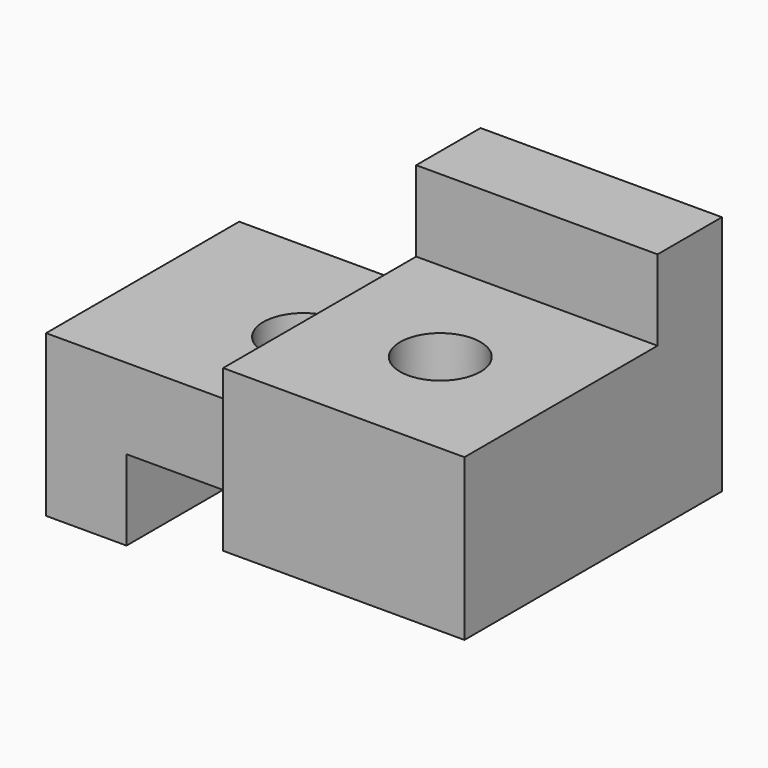
from build123d import *

# Parameters (mm, degrees)
F0_R      = 3.175
F0_W      = 19.05
F0_H      = 6.35
F1_DEPTH  = 12.7
F2_DEPTH  = 19.05
F3_W      = 12.7
F3_H      = 6.35
F4_DEPTH  = 19.051
F5_W      = 19.05
F5_H      = 6.35
F6_DEPTH  = 25.401
F7_R      = 3.175
F8_DEPTH  = 6.35
F9_W      = 19.05
F9_H      = 6.35
F10_DEPTH = 6.35


with BuildPart() as f1:
    # F0 (on Top) → F1 (new body)
    with BuildSketch(Plane.XY):
        Polygon((0, 19.05), (0, 0), (19.05, 0), (19.05, 12.7), (19.05, 19.05), align=None)
        with Locations((12.7, 9.525)):
            Circle(F0_R, mode=Mode.SUBTRACT)
        Polygon((19.05, 12.7), (19.05, 0), (19.05, -6.35), (38.1, -6.35), (38.1, 12.7), align=None)
        with Locations((28.575, 3.175)):
            Circle(F0_R, mode=Mode.SUBTRACT)
        with Locations((28.575, 15.875)):
            Rectangle(F0_W, F0_H)
    extrude(amount=F1_DEPTH)

    # F0 (on Top) → F2 (join)
    with BuildSketch(Plane.XY):
        with Locations((28.575, 15.875)):
            Rectangle(F0_W, F0_H)
    extrude(amount=F2_DEPTH)

    # F3 (on face) → F4 (cut, through all)
    with BuildSketch(Plane.XZ):
        with Locations((12.7, 3.175)):
            Rectangle(F3_W, F3_H)
    extrude(amount=-F4_DEPTH, mode=Mode.SUBTRACT)

    # F5 (on face) → F6 (cut, through all)
    with BuildSketch(Plane.XZ.offset(6.35)):
        with Locations((28.575, 3.175)):
            Rectangle(F5_W, F5_H)
    extrude(amount=-F6_DEPTH, mode=Mode.SUBTRACT)

    # F7 (on face) → F8 (join)
    with BuildSketch(Plane.XY.offset(12.7)):
        Polygon((19.05, 12.7), (19.05, 0), (19.05, -6.35), (38.1, -6.35), (38.1, 12.7), align=None)
        with Locations((28.575, 3.175)):
            Circle(F7_R, mode=Mode.SUBTRACT)
    extrude(amount=F8_DEPTH)

    # F9 (on face) → F10 (join)
    with BuildSketch(Plane.XY.offset(19.05)):
        with Locations((28.575, 15.875)):
            Rectangle(F9_W, F9_H)
    extrude(amount=F10_DEPTH)


solid = f1.part
